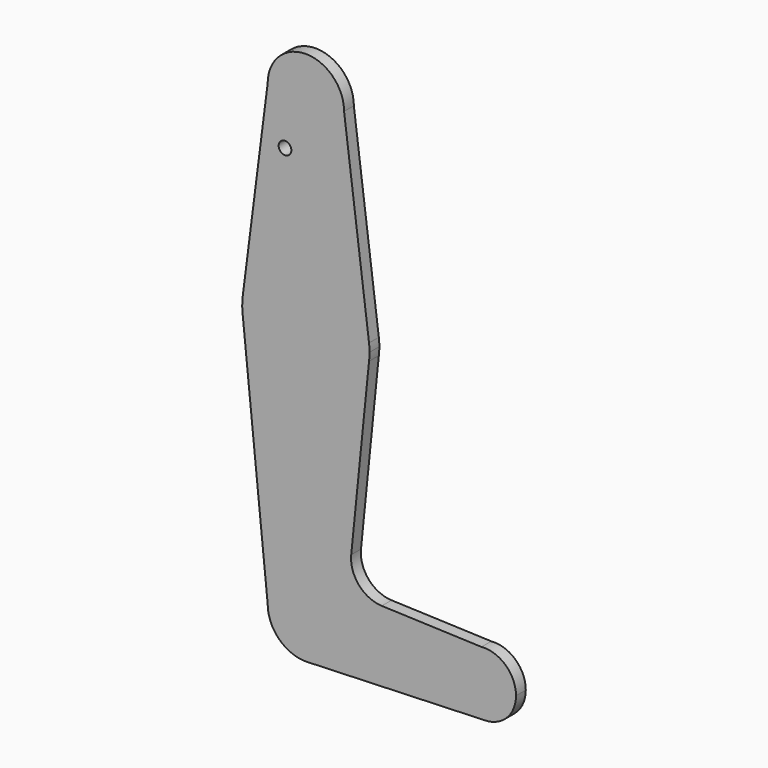
from build123d import *

# Parameters (mm, degrees)
F0_R     = 1.5875
F1_DEPTH = 3.048


with BuildPart() as f1:
    # F0 (on Front) → F1 (new body)
    with BuildSketch(Plane.XZ):
        with BuildLine():
            ThreePointArc((0, -9.525), (6.7351920908, -6.7351920908), (9.525, 0))
            ThreePointArc((9.525, 0), (0, 9.525), (-9.525, 0))
            ThreePointArc((-9.525, 0), (-6.7351920908, -6.7351920908), (0, -9.525))
        make_face()
        with BuildLine():
            ThreePointArc((36.5125, -114.3), (38.8373399243, -119.9126600757), (44.45, -122.2375))
            ThreePointArc((44.45, -122.2375), (50.0626600757, -119.9126600757), (52.3875, -114.3))
            ThreePointArc((52.3875, -114.3), (49.82223526, -108.456799288), (43.7845407405, -106.3904443725))
            ThreePointArc((43.7845407405, -106.3904443725), (38.606799288, -108.92776474), (36.5125, -114.3))
        make_face()
        with BuildLine():
            Line((15.7474569047, -48.7917106696), (9.525, 0))
            ThreePointArc((9.525, 0), (6.7351920908, -6.7351920908), (0, -9.525))
            Line((0, -9.525), (0, -34.925))
            ThreePointArc((0, -34.925), (10.4912828548, -38.8857812233), (15.7474569047, -48.7917106696))
        make_face()
        with BuildLine():
            ThreePointArc((15.875, -50.8), (15.8430821396, -49.7938323604), (15.7474569047, -48.7917106696))
            ThreePointArc((15.7474569047, -48.7917106696), (10.4912828548, -38.8857812233), (0, -34.925))
            Line((0, -34.925), (0, -50.8))
            Line((0, -50.8), (0, -66.675))
            ThreePointArc((0, -66.675), (10.4912828548, -62.7142187767), (15.7474569047, -52.8082893304))
            ThreePointArc((15.7474569047, -52.8082893304), (15.8430821396, -51.8061676396), (15.875, -50.8))
        make_face()
        with BuildLine():
            ThreePointArc((0, -34.925), (-10.4912828548, -38.8857812233), (-15.7474569047, -48.7917106696))
            ThreePointArc((-15.7474569047, -48.7917106696), (-15.873667691, -50.5943327053), (-15.7942028036, -52.3996195795))
            ThreePointArc((-15.7942028036, -52.3996195795), (-10.644756084, -62.577299899), (0, -66.675))
            Line((0, -66.675), (0, -50.8))
            Line((0, -50.8), (0, -34.925))
        make_face()
        with BuildLine():
            ThreePointArc((9.5249999893, -114.3004510637), (6.8548214492, -120.913850171), (0.3413679151, -123.8193319296))
            Line((0.3413679151, -123.8193319296), (44.45, -122.2375))
            ThreePointArc((44.45, -122.2375), (38.8373399243, -119.9126600757), (36.5125, -114.3))
            Line((36.5125, -114.3), (9.5249999786, -114.3))
            ThreePointArc((9.5249999786, -114.3), (9.5249999866, -114.3002255318), (9.5249999893, -114.3004510637))
        make_face()
        with BuildLine():
            ThreePointArc((0, -9.525), (-6.7351920908, -6.7351920908), (-9.525, 0))
            Line((-9.525, 0), (-15.7474569047, -48.7917106696))
            ThreePointArc((-15.7474569047, -48.7917106696), (-10.4912828548, -38.8857812233), (0, -34.925))
            Line((0, -34.925), (0, -9.525))
        make_face()
        with Locations((-5.1994924434, -12.8179332241)):
            Circle(F0_R, mode=Mode.SUBTRACT)
        with BuildLine():
            Line((11.3035053557, -96.7244123452), (15.7474569047, -52.8082893304))
            ThreePointArc((15.7474569047, -52.8082893304), (10.4912828548, -62.7142187767), (0, -66.675))
            Line((0, -66.675), (0, -104.7754510637))
            ThreePointArc((0, -104.7754510637), (6.7350326069, -107.5650995034), (9.5249999786, -114.3))
            Line((9.5249999786, -114.3), (36.5125, -114.3))
            ThreePointArc((36.5125, -114.3), (38.606799288, -108.92776474), (43.7845407405, -106.3904443725))
            Line((43.7845407405, -106.3904443725), (18.9190840142, -105.4695734762))
            ThreePointArc((18.9190840142, -105.4695734762), (13.2178128524, -102.7459001885), (11.3035053557, -96.7244123452))
        make_face()
        with BuildLine():
            ThreePointArc((0, -104.7754510637), (-6.7350326207, -107.5650994959), (-9.525, -114.3))
            ThreePointArc((-9.525, -114.3), (-6.6135614239, -121.1551159303), (0.3413679151, -123.8193319296))
            ThreePointArc((0.3413679151, -123.8193319296), (6.8548214492, -120.913850171), (9.5249999893, -114.3004510637))
            ThreePointArc((9.5249999893, -114.3004510637), (9.5249999866, -114.3002255318), (9.5249999786, -114.3))
            Line((9.5249999786, -114.3), (0, -114.3))
            Line((0, -114.3), (0, -104.7754510637))
        make_face()
        with BuildLine():
            ThreePointArc((9.5249999786, -114.3), (6.7350326069, -107.5650995034), (0, -104.7754510637))
            Line((0, -104.7754510637), (0, -114.3))
            Line((0, -114.3), (9.5249999786, -114.3))
        make_face()
        with BuildLine():
            ThreePointArc((0, -66.675), (-10.644756084, -62.577299899), (-15.7942028036, -52.3996195795))
            Line((-15.7942028036, -52.3996195795), (-9.525, -114.3))
            ThreePointArc((-9.525, -114.3), (-6.7350326207, -107.5650994959), (0, -104.7754510637))
            Line((0, -104.7754510637), (0, -66.675))
        make_face()
    extrude(amount=F1_DEPTH)


solid = f1.part
